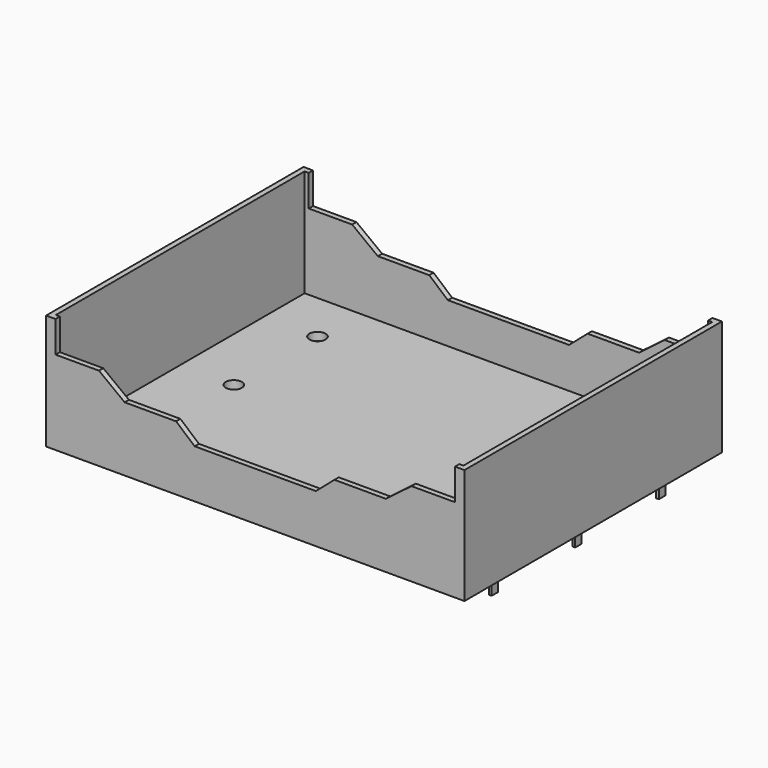
from build123d import *

# Parameters (mm, degrees)
F0_W     = 78
F0_H     = 60
F1_DEPTH = 21.5
F2_W     = 76
F2_H     = 58
F3_DEPTH = 20
F5_DEPTH = 60.001
F6_W     = 0.5
F6_H     = 1.5
F7_DEPTH = 4
F8_R     = 1.5
F9_DEPTH = 25


with BuildPart() as f1:
    # F0 (on Top) → F1 (new body)
    with BuildSketch(Plane.XY):
        with Locations((39, -30)):
            Rectangle(F0_W, F0_H)
    extrude(amount=F1_DEPTH)

    # F2 (on face) → F3 (cut)
    with BuildSketch(Plane.XY.offset(21.5)):
        with Locations((39, -30)):
            Rectangle(F2_W, F2_H)
    extrude(amount=-F3_DEPTH, mode=Mode.SUBTRACT)

    # F4 (on face) → F5 (cut, through all)
    with BuildSketch(Plane.XZ.offset(60)):
        Polygon((27.707402, 9.04668), (39, 9.04668), (50.292598, 9.04668), (53.762321, 12.020729), (63.345369, 12.020729), (68.136893, 15.65568), (76.232917, 15.65568), (76.232917, 21.5), (1.767083, 21.5), (1.767083, 15.65568), (9.863107, 15.65568), (14.654631, 12.020729), (24.237679, 12.020729), align=None)
    extrude(amount=-F5_DEPTH, mode=Mode.SUBTRACT)

    # F6 (on face) → F7 (join)
    with BuildSketch(Plane(origin=(0, 0, 0), x_dir=(1, 0, 0), z_dir=(0, 0, -1))):
        with Locations((75, 10.5)):
            Rectangle(F6_W, F6_H)
        with Locations((75, 30)):
            Rectangle(F6_W, F6_H)
        with Locations((75, 49.5)):
            Rectangle(F6_W, F6_H)
        with Locations((3, 10.5)):
            Rectangle(F6_W, F6_H)
        with Locations((3, 49.5)):
            Rectangle(F6_W, F6_H)
        with Locations((3, 30)):
            Rectangle(F6_W, F6_H)
    extrude(amount=F7_DEPTH)

    # F8 (on face) → F9 (cut)
    with BuildSketch(Plane(origin=(0, 0, 0), x_dir=(1, 0, 0), z_dir=(0, 0, -1))):
        with BuildLine():
            ThreePointArc((65.5, 10.5), (67, 9), (68.5, 10.5))
            Line((68.5, 10.5), (65.5, 10.5))
        make_face()
        with BuildLine():
            Line((65.5, 10.5), (68.5, 10.5))
            ThreePointArc((68.5, 10.5), (67, 12), (65.5, 10.5))
        make_face()
        with BuildLine():
            ThreePointArc((9.5, 10.5), (11, 9), (12.5, 10.5))
            Line((12.5, 10.5), (9.5, 10.5))
        make_face()
        with BuildLine():
            Line((9.5, 10.5), (12.5, 10.5))
            ThreePointArc((12.5, 10.5), (11, 12), (9.5, 10.5))
        make_face()
        with BuildLine():
            ThreePointArc((65.5, 30), (67, 28.5), (68.5, 30))
            Line((68.5, 30), (65.5, 30))
        make_face()
        with BuildLine():
            Line((65.5, 30), (68.5, 30))
            ThreePointArc((68.5, 30), (67, 31.5), (65.5, 30))
        make_face()
        with BuildLine():
            ThreePointArc((9.5, 30), (11, 28.5), (12.5, 30))
            Line((12.5, 30), (9.5, 30))
        make_face()
        with BuildLine():
            Line((9.5, 30), (12.5, 30))
            ThreePointArc((12.5, 30), (11, 31.5), (9.5, 30))
        make_face()
        with Locations((67, 49.5)):
            Circle(F8_R)
        with Locations((11, 49.5)):
            Circle(F8_R)
    extrude(amount=-F9_DEPTH, mode=Mode.SUBTRACT)


solid = f1.part
